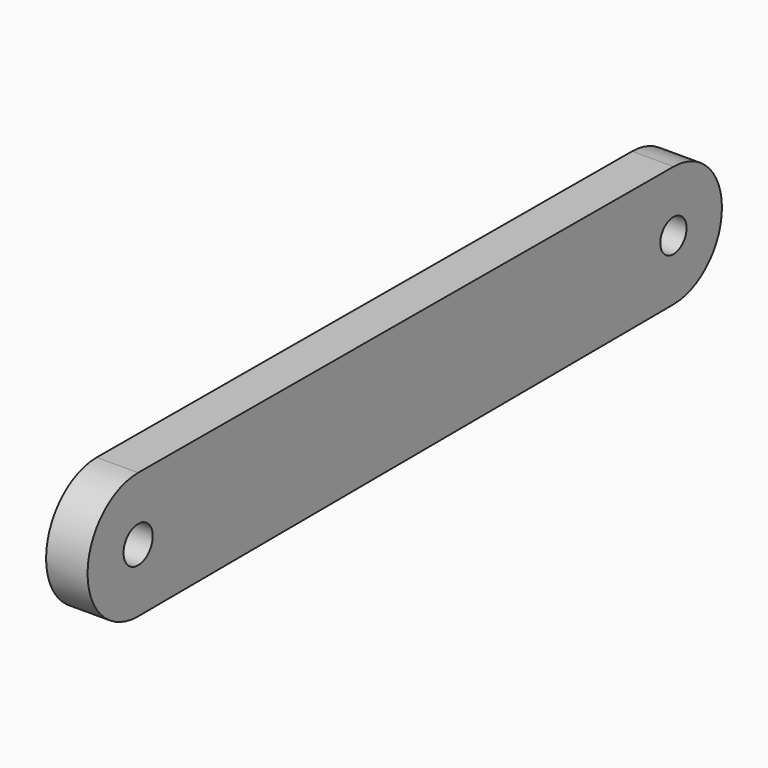
from build123d import *

# Parameters (mm, degrees)
F0_R     = 5.587981
F0_R_2   = 5.023035
F1_DEPTH = 12.7


with BuildPart() as f1:
    # F0 (on Right) → F1 (new body)
    with BuildSketch(Plane.YZ):
        with BuildLine():
            ThreePointArc((99.796332, -18.562978), (81.160838, 0), (99.796332, 18.562978))
            Line((99.796332, 18.562978), (-105.168663, 19.362104))
            ThreePointArc((-105.168663, 19.362104), (-124.530767, 0), (-105.168663, -19.362104))
            Line((-105.168663, -19.362104), (99.796332, -18.562978))
        make_face()
        with Locations((-105.168663, 0)):
            Circle(F0_R, mode=Mode.SUBTRACT)
        with BuildLine():
            ThreePointArc((99.796332, -18.562978), (81.160838, 0), (99.796332, 18.562978))
            Line((99.796332, 18.562978), (-105.168663, 19.362104))
            ThreePointArc((-105.168663, 19.362104), (-124.530767, 0), (-105.168663, -19.362104))
            Line((-105.168663, -19.362104), (99.796332, -18.562978))
        make_face()
        with Locations((-105.168663, 0)):
            Circle(F0_R, mode=Mode.SUBTRACT)
        with BuildLine():
            ThreePointArc((99.796332, -18.562978), (112.875628, -13.100494), (118.287077, 0))
            ThreePointArc((118.287077, 0), (112.875628, 13.100494), (99.796332, 18.562978))
            ThreePointArc((99.796332, 18.562978), (81.160838, 0), (99.796332, -18.562978))
        make_face()
        with Locations((99.723957, 0)):
            Circle(F0_R_2, mode=Mode.SUBTRACT)
    extrude(amount=F1_DEPTH)


solid = f1.part
